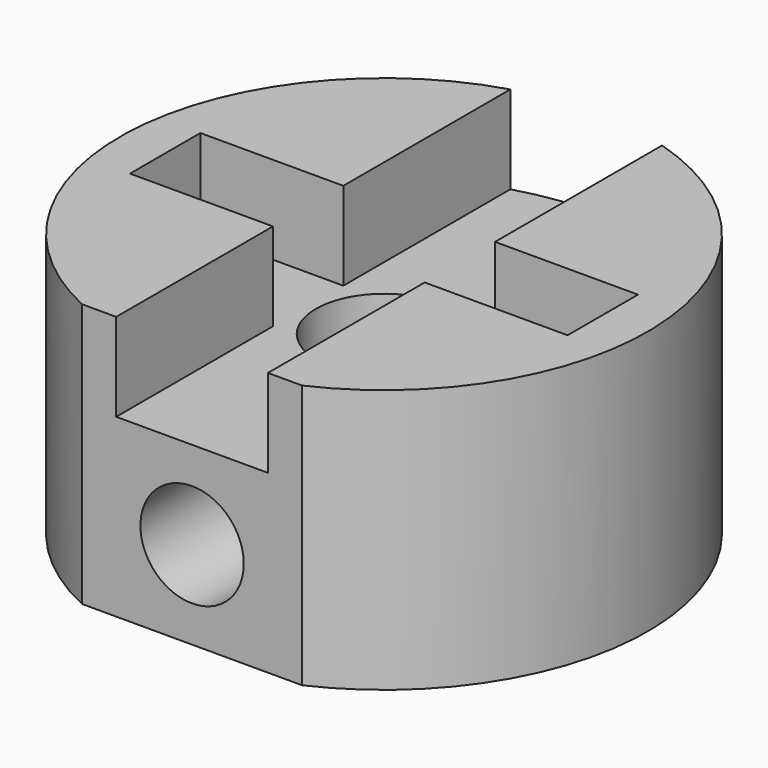
from build123d import *

# Parameters (mm, degrees)
PAD125_DEPTH            = 4
SKETCH248_R             = 12
PAD126_DEPTH            = 12
POCKET089_DEPTH         = 8
SKETCH249_R             = 3.1
POCKET090_DEPTH         = 12.001
SKETCH250_R             = 2.35
POCKET091_DEPTH         = 12.001
SKETCH251_W             = 10
SKETCH251_H             = 6.070738
POCKET092_DEPTH         = 12.001
BODY142_PLACEMENT_ANGLE = 180


with BuildPart() as part:
    # Sketch247 → Pad125 (new body)
    with BuildSketch(Plane.XY):
        Polygon((-3.45, 2), (-3.45, 18.25), (3.45, 18.25), (3.45, 2), (9.95, 2), (9.95, -2), (3.45, -2), (3.45, -18.25), (-3.45, -18.25), (-3.45, -2), (-9.95, -2), (-9.95, 2), align=None)
    extrude(amount=PAD125_DEPTH)

    # Sketch248 (on Face14 of Pad125) → Pad126 (join)
    with BuildSketch(Plane.XY.offset(4)):
        Circle(SKETCH248_R)
    extrude(amount=PAD126_DEPTH)

    # Pad126 Face4 → Pocket089 (cut)
    with BuildSketch(Plane(origin=(0, 0, 0), x_dir=(0, -1, 0), z_dir=(0, 0, -1))):
        Polygon((-2, 3.45), (-18.25, 3.45), (-18.25, -3.45), (-2, -3.45), (-2, -9.95), (2, -9.95), (2, -3.45), (18.25, -3.45), (18.25, 3.45), (2, 3.45), (2, 9.95), (-2, 9.95), align=None)
    extrude(amount=-POCKET089_DEPTH, mode=Mode.SUBTRACT)

    # Sketch249 (on Face9 of Pocket089) → Pocket090 (cut, through all)
    with BuildSketch(Plane.XY.offset(16)):
        Circle(SKETCH249_R)
    extrude(amount=-POCKET090_DEPTH, mode=Mode.SUBTRACT)

    # Sketch250 → Pocket091 (cut, through all)
    with BuildSketch(Plane.XZ):
        with Locations((0, 12)):
            Circle(SKETCH250_R)
    extrude(amount=-POCKET091_DEPTH, mode=Mode.SUBTRACT)

    # Sketch251 (on Face12 of Pocket091) → Pocket092 (cut, through all)
    with BuildSketch(Plane.XY.offset(16)):
        with Locations((0, 13.944081)):
            Rectangle(SKETCH251_W, SKETCH251_H)
    extrude(amount=-POCKET092_DEPTH, mode=Mode.SUBTRACT)


with BuildPart() as part_1:
    # Body142 placement: moved
    add(part.part.moved(Location((0, -90, 0))).rotate(Axis((0, -90, 0), (-1, 0, 0)), BODY142_PLACEMENT_ANGLE))


with BuildPart() as part_2:
    # Clone placement: moved
    add(part_1.part.moved(Location((12.971379, 101.908712, 17))))


solid = part_2.part
